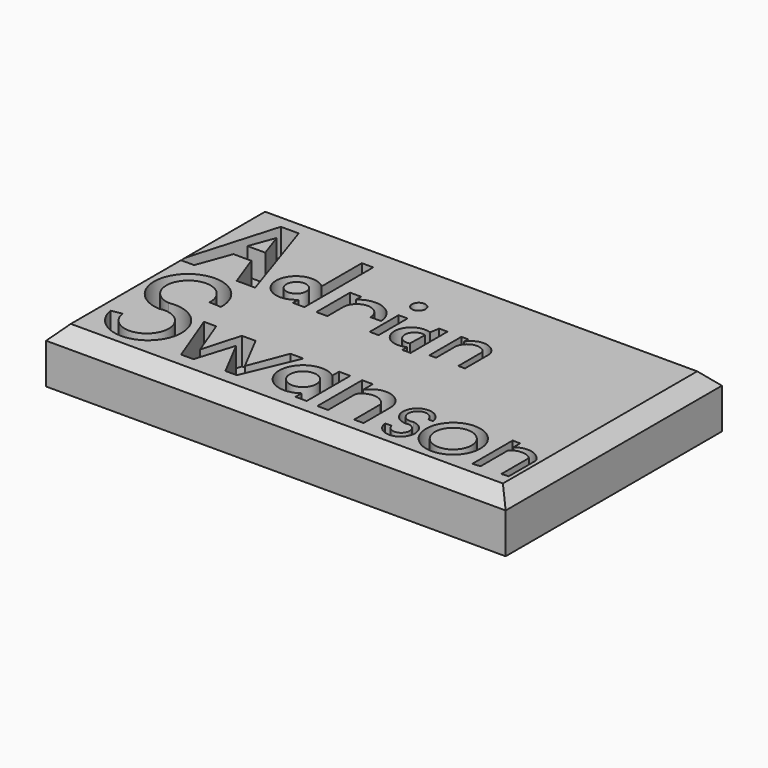
from build123d import *

# Parameters (mm, degrees)
F0_W     = 85
F0_H     = 50
F1_DEPTH = 10
F4_SIZE  = 2.54
F2_R     = 1.830609
F2_R_2   = 1.251164
F3_R     = 2.466277
F3_R_2   = 5.012631
F3_R_3   = 3.402789
F5_DEPTH = 5


with BuildPart() as f1:
    # F0 (on Top) → F1 (new body)
    with BuildSketch(Plane.XY):
        with Locations((13.320725, 22.314699)):
            Rectangle(F0_W, F0_H)
    extrude(amount=F1_DEPTH)

    # F4
    f4_edges = [f1.edges().sort_by_distance(p)[0] for p in [
        (13.320725, 47.314699, 10),
        (-29.179275, 22.314699, 10),
        (13.320725, -2.685301, 10),
        (55.820725, 22.314699, 10),
    ]]
    chamfer(f4_edges, length=F4_SIZE)

    # F2 (on face) + F3 (on face) → F5 (cut)
    with BuildSketch(Plane.XY.offset(10)):
        Polygon((-21.920681, 42.516656), (-26.938394, 25.330184), (-24.203247, 25.330184), (-21.920681, 31.555358), (-18.619085, 31.555358), (-16.336523, 25.330184), (-12.91264, 25.330184), (-18.619085, 42.516656), align=None)
        Polygon((-20.203851, 39.413154), (-18.619085, 34.790922), (-21.920681, 34.790922), align=None, mode=Mode.SUBTRACT)
        with BuildLine():
            ThreePointArc((-5.676832, 31.621389), (-11.941997, 28.947097), (-5.676832, 26.272805))
            Line((-5.676832, 26.272805), (-5.676832, 25.018198))
            Line((-5.676832, 25.018198), (-3.56381, 25.018198))
            Line((-3.56381, 25.018198), (-3.56381, 40.931888))
            Line((-3.56381, 40.931888), (-5.676832, 40.931888))
            Line((-5.676832, 40.931888), (-5.676832, 31.621389))
        make_face()
        with Locations((-8.245731, 29.008828)):
            Circle(F2_R, mode=Mode.SUBTRACT)
        with BuildLine():
            Line((-1.252693, 32.6779), (-1.252693, 24.886135))
            Line((-1.252693, 24.886135), (0.794296, 24.886135))
            Line((0.794296, 24.886135), (0.794296, 28.517889))
            ThreePointArc((0.794296, 28.517889), (3.322981, 31.046574), (5.851666, 28.517889))
            Line((5.851666, 28.517889), (7.805725, 28.537814))
            ThreePointArc((7.805725, 28.537814), (5.231823, 32.219617), (0.794296, 31.520326))
            Line((0.794296, 31.520326), (0.794296, 32.6779))
            Line((0.794296, 32.6779), (-1.252693, 32.6779))
        make_face()
        Polygon((10.287394, 31.555358), (8.628487, 31.555358), (8.628487, 24.886135), (10.287394, 24.851044), align=None)
        with Locations((9.245559, 35.428446)):
            Circle(F2_R_2)
        with BuildLine():
            Line((15.827652, 31.931706), (15.519116, 30.183338))
            ThreePointArc((15.519116, 30.183338), (11.282193, 27.115575), (15.827652, 24.526851))
            Line((15.827652, 24.526851), (15.827652, 23.395553))
            Line((15.827652, 23.395553), (17.37033, 23.395553))
            Line((17.37033, 23.395553), (17.37033, 31.931706))
            Line((17.37033, 31.931706), (15.827652, 31.931706))
        make_face()
        with BuildLine():
            ThreePointArc((15.416271, 25.658149), (13.135805, 27.425758), (15.519116, 29.05204))
            Line((15.519116, 29.05204), (15.416271, 25.658149))
        make_face(mode=Mode.SUBTRACT)
        with BuildLine():
            Line((21.175602, 31.931706), (19.94146, 31.931706))
            Line((19.94146, 31.931706), (19.94146, 24.526851))
            Line((19.94146, 24.526851), (21.175602, 24.526851))
            Line((21.175602, 24.526851), (21.175602, 28.84635))
            ThreePointArc((21.175602, 28.84635), (22.746854, 31.009158), (25.289411, 30.183338))
            Line((25.289411, 30.183338), (25.289411, 24.526851))
            Line((25.289411, 24.526851), (26.523555, 24.526851))
            Line((26.523555, 24.526851), (26.523555, 30.286184))
            ThreePointArc((26.523555, 30.286184), (24.083285, 32.382249), (21.175602, 31.0061))
            Line((21.175602, 31.0061), (21.175602, 31.931706))
        make_face()
    with BuildSketch(Plane.XY.offset(10)):
        with BuildLine():
            Line((-15.212267, 17.637189), (-13.020429, 17.527597))
            ThreePointArc((-13.020429, 17.527597), (-23.456448, 22.38112), (-19.705536, 11.500043))
            ThreePointArc((-19.705536, 11.500043), (-15.363439, 5.240268), (-22.77411, 7.006774))
            Line((-22.77411, 7.006774), (-24.746763, 6.677999))
            ThreePointArc((-24.746763, 6.677999), (-13.507007, 4.069267), (-19.705536, 13.801472))
            ThreePointArc((-19.705536, 13.801472), (-21.949485, 20.979729), (-15.212267, 17.637189))
        make_face()
        Polygon((-9.757687, 12.376778), (-12.034101, 12.376778), (-8.198384, 2.294322), (-5.896954, 2.294322), (-3.705117, 9.417796), (0, 2.294322), (2.103255, 2.294322), (6.377339, 12.376778), (3.966318, 12.376778), (1.226519, 5.253303), (-2.478598, 12.376778), (-5.020219, 12.376778), (-7.047669, 5.253303), align=None)
        with BuildLine():
            Line((15.0351, 2.294322), (15.0351, 12.376778))
            Line((15.0351, 12.376778), (12.952854, 12.376778))
            Line((12.952854, 12.376778), (12.952854, 10.842491))
            ThreePointArc((12.952854, 10.842491), (5.970738, 7.280754), (12.952854, 3.719016))
            Line((12.952854, 3.719016), (12.952854, 2.294322))
            Line((12.952854, 2.294322), (15.0351, 2.294322))
        make_face()
        with Locations((10.370258, 7.280754)):
            Circle(F3_R, mode=Mode.SUBTRACT)
        with BuildLine():
            Line((19.199593, 12.376778), (17.226938, 12.376778))
            Line((17.226938, 12.376778), (17.226938, 2.030088))
            Line((17.226938, 2.030088), (19.199593, 2.030088))
            Line((19.199593, 2.030088), (19.199593, 8.450842))
            ThreePointArc((19.199593, 8.450842), (21.691911, 9.686684), (24.021637, 8.166376))
            Line((24.021637, 8.166376), (24.021637, 2.030088))
            Line((24.021637, 2.030088), (25.764035, 2.030088))
            Line((25.764035, 2.030088), (25.764035, 8.450842))
            ThreePointArc((25.764035, 8.450842), (23.066805, 11.626978), (19.199593, 10.075347))
            Line((19.199593, 10.075347), (19.199593, 12.376778))
        make_face()
        with BuildLine():
            Line((32.3296, 8.760245), (33.227358, 8.760245))
            ThreePointArc((33.227358, 8.760245), (28.437176, 9.918983), (31.145109, 5.801263))
            ThreePointArc((31.145109, 5.801263), (32.104813, 3.227295), (29.444952, 3.913939))
            Line((29.444952, 3.913939), (28.267544, 3.913939))
            ThreePointArc((28.267544, 3.913939), (32.81246, 2.257757), (31.145109, 6.798588))
            ThreePointArc((31.145109, 6.798588), (29.156537, 9.33777), (32.3296, 8.760245))
        make_face()
        with Locations((38.923081, 6.327625)):
            Circle(F3_R_2)
        with Locations((38.923081, 6.327625)):
            Circle(F3_R_3, mode=Mode.SUBTRACT)
        with BuildLine():
            Line((45.981784, 1.907284), (47.400411, 2.030088))
            Line((47.400411, 2.030088), (47.400411, 8.450842))
            ThreePointArc((47.400411, 8.450842), (49.325353, 9.178813), (51.250294, 8.450842))
            Line((51.250294, 8.450842), (51.250294, 2.030088))
            Line((51.250294, 2.030088), (52.535262, 2.141321))
            Line((52.535262, 2.141321), (52.535262, 8.450842))
            ThreePointArc((52.535262, 8.450842), (50.256526, 10.269882), (47.400411, 9.683236))
            Line((47.400411, 9.683236), (47.400411, 11.202979))
            Line((47.400411, 11.202979), (45.981784, 11.226063))
            Line((45.981784, 11.226063), (45.981784, 1.907284))
        make_face()
    extrude(amount=-F5_DEPTH, mode=Mode.SUBTRACT)


solid = f1.part
